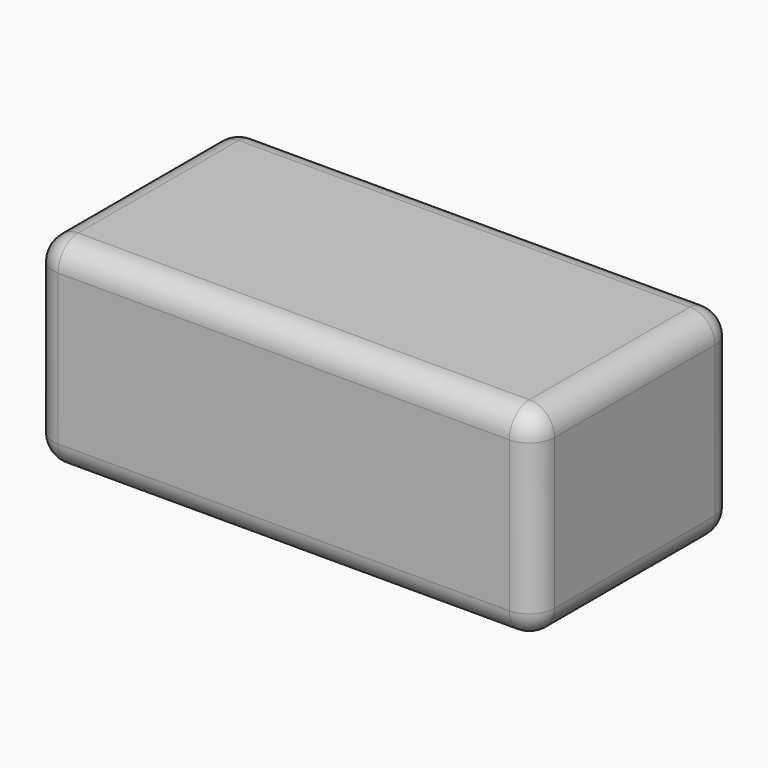
from build123d import *

# Parameters (mm, degrees)
F0_W     = 100
F0_H     = 50
F1_DEPTH = 20
F2_R     = 5
F3_T     = -2.5


with BuildPart() as f1:
    # F0 (on Top) → F1 (new body)
    with BuildSketch(Plane.XY):
        Rectangle(F0_W, F0_H)
    extrude(amount=F1_DEPTH)

    # F2
    f2_edges = [f1.edges().sort_by_distance(p)[0] for p in [
        (-50, 0, 20),
        (0, -25, 20),
        (50, 0, 20),
        (0, 25, 20),
        (50, 25, 10),
        (50, -25, 10),
        (-50, -25, 10),
        (-50, 25, 10),
    ]]
    fillet(f2_edges, radius=F2_R)

    # F3
    f3_openings = [f1.faces().sort_by_distance(p)[0] for p in [
        (0, 0, 0),
    ]]
    offset(amount=F3_T, openings=f3_openings)

    # F4: F1 across plane


with BuildPart() as f1_1:
    add(f1.part)
    add(f1.part.mirror(Plane.XY))


solid = f1_1.part
